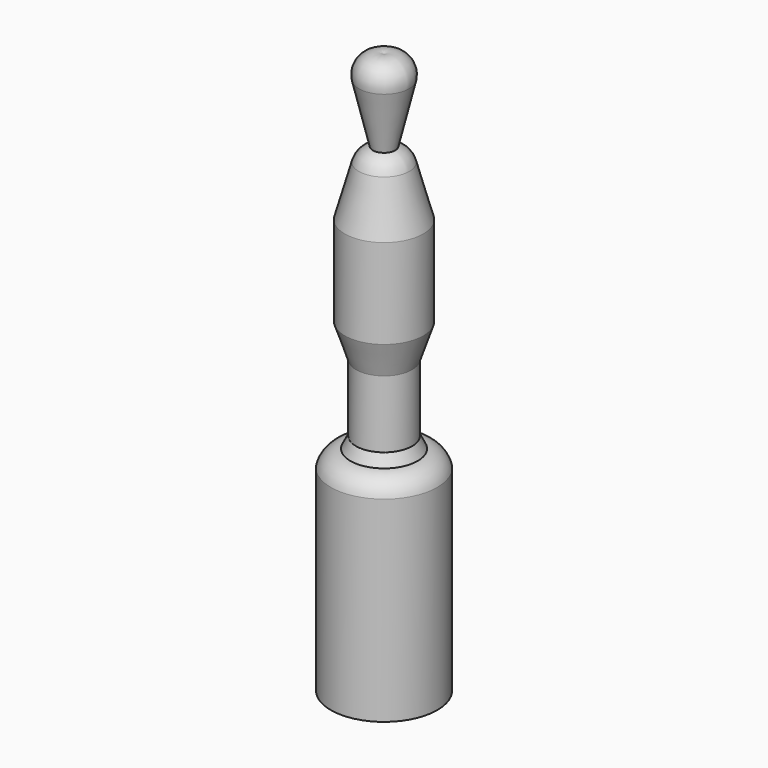
from build123d import *


with BuildPart() as f1:
    # F0 (on Front) → F1 (revolve)
    with BuildSketch(Plane.XZ):
        with BuildLine():
            Line((2, -14.5), (4.5, -4))
            ThreePointArc((4.5, -4), (3.446003, -0.654497), (0, 0))
            Line((0, 0), (0, -100))
            Line((0, -100), (9.5, -100))
            Line((9.5, -100), (9.5, -65))
            ThreePointArc((9.5, -65), (8.225615, -62.945116), (6, -62))
            Line((6, -62), (5, -60))
            Line((5, -60), (5, -48))
            Line((5, -48), (7, -42))
            Line((7, -42), (7, -26))
            Line((7, -26), (4.5, -17))
            ThreePointArc((4.5, -17), (3.578816, -15.421184), (2, -14.5))
        make_face()
    revolve(axis=Axis((0, 0, -50), (0, 0, 1)))


solid = f1.part
